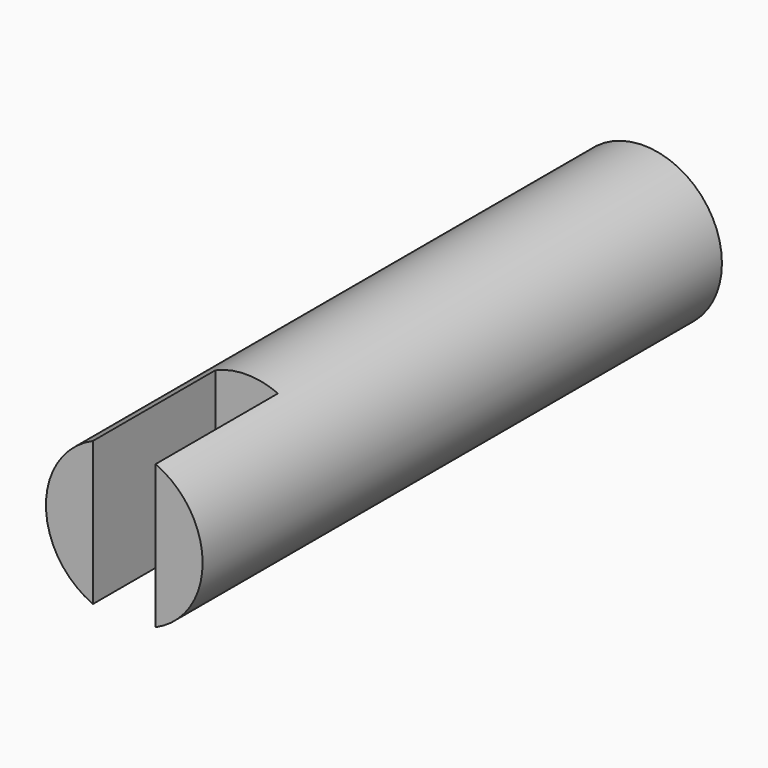
from build123d import *

# Parameters (mm, degrees)
F1_R     = 3.5
F2_DEPTH = 29
F0_R     = 2
F3_DEPTH = 19
F4_W     = 2.8
F4_H     = 7.9
F5_DEPTH = 12.5


with BuildPart() as f2:
    # F1 (on Front) → F2 (new body)
    with BuildSketch(Plane.XZ):
        Circle(F1_R)
    extrude(amount=F2_DEPTH)

    # F0 (on Front) → F3 (cut)
    with BuildSketch(Plane.XZ):
        Circle(F0_R)
    extrude(amount=F3_DEPTH, mode=Mode.SUBTRACT)

    # F4 (on Top) → F5 (cut, symmetric)
    with BuildSketch(Plane.XY):
        with Locations((0, -26.117409)):
            Rectangle(F4_W, F4_H)
    extrude(amount=F5_DEPTH, both=True, mode=Mode.SUBTRACT)


solid = f2.part
